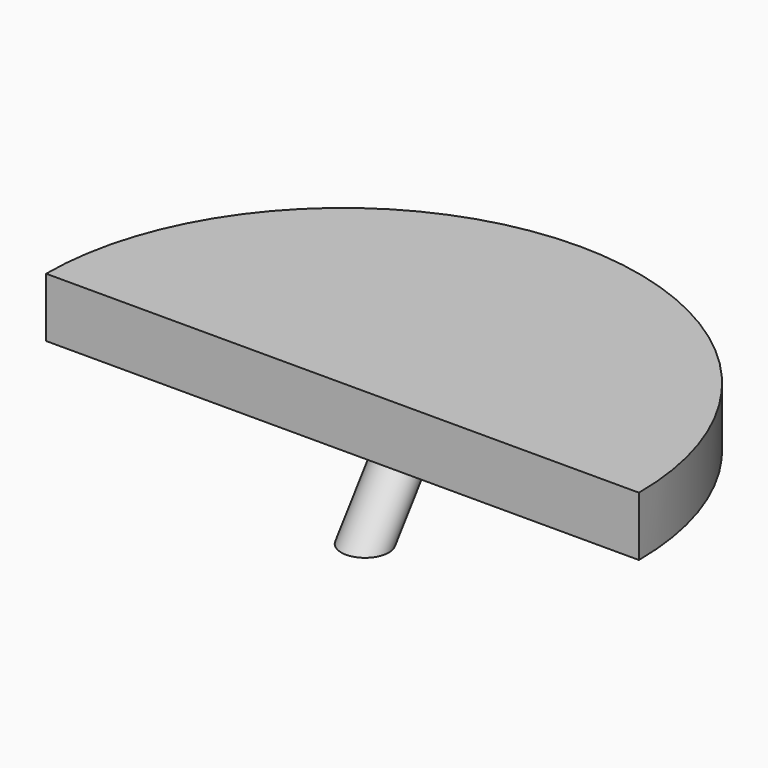
from build123d import *

# Parameters (mm, degrees)
F1_DEPTH = 6.35
F3_DEPTH = 25.4
F4_R     = 3.81
F7_R     = 5.08


with BuildPart() as f1:
    # F0 (on Top) → F1 (new body, symmetric)
    with BuildSketch(Plane.XY):
        with BuildLine():
            Line((-63.5, 0), (63.5, 0))
            ThreePointArc((63.5, 0), (0, 63.5), (-63.5, 0))
        make_face()
    extrude(amount=F1_DEPTH, both=True)

    # F2 (on Top) → F3 (cut)
    with BuildSketch(Plane.XY):
        with BuildLine():
            Line((-50.2836502119, 7.2245775906), (50.2836502119, 7.2245775906))
            ThreePointArc((50.2836502119, 7.2245775906), (0, 50.8), (-50.2836502119, 7.2245775906))
        make_face()
    extrude(amount=-F3_DEPTH, mode=Mode.SUBTRACT)

    # F6: sweep along a path in F5
    with BuildLine(Plane.YZ) as f6_path:
        Line((25.5370624363, 0), (6.1716223136, -26.4036767185))
    # F4 (on Top) → F6 (sweep, cut)
    with BuildSketch(Plane.XY):
        with Locations((0, 25.4)):
            Circle(F4_R)
    sweep(path=f6_path.line, mode=Mode.SUBTRACT)

    # F8: sweep along a path in F5
    with BuildLine(Plane.YZ) as f8_path:
        Line((25.5370624363, 0), (6.1716223136, -26.4036767185))
    # F7 (on Top) → F8 (sweep)
    with BuildSketch(Plane.XY):
        with Locations((0, 25.4)):
            Circle(F7_R)
    sweep(path=f8_path.line)


solid = f1.part
